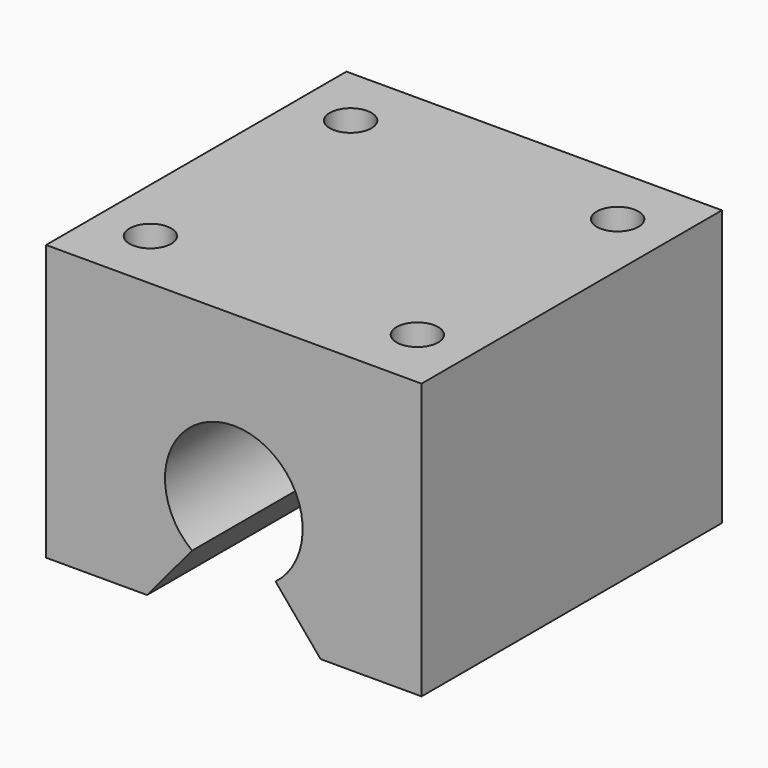
from build123d import *

# Parameters (mm, degrees)
F1_DEPTH = 45
F2_R     = 2.5
F3_DEPTH = 12


with BuildPart() as f1:
    # F0 (on Front) → F1 (new body)
    with BuildSketch(Plane.XZ):
        with BuildLine():
            Line((0, -33), (0, 0))
            Line((0, 0), (-45, 0))
            Line((-45, 0), (-45, -33))
            Line((-45, -33), (-32.901954, -33))
            Line((-32.901954, -33), (-27.5, -26.562202))
            ThreePointArc((-27.5, -26.562202), (-22.5, -11.75), (-17.5, -26.562202))
            Line((-17.5, -26.562202), (-12.098046, -33))
            Line((-12.098046, -33), (0, -33))
        make_face()
    extrude(amount=F1_DEPTH)

    # F2 (on face) → F3 (cut)
    with BuildSketch(Plane.XY):
        with Locations((-38.5, -37.5)):
            Circle(F2_R)
        with Locations((-6.5, -37.5)):
            Circle(F2_R)
        with Locations((-6.5, -7.5)):
            Circle(F2_R)
        with Locations((-38.5, -7.5)):
            Circle(F2_R)
    extrude(amount=-F3_DEPTH, mode=Mode.SUBTRACT)


solid = f1.part
